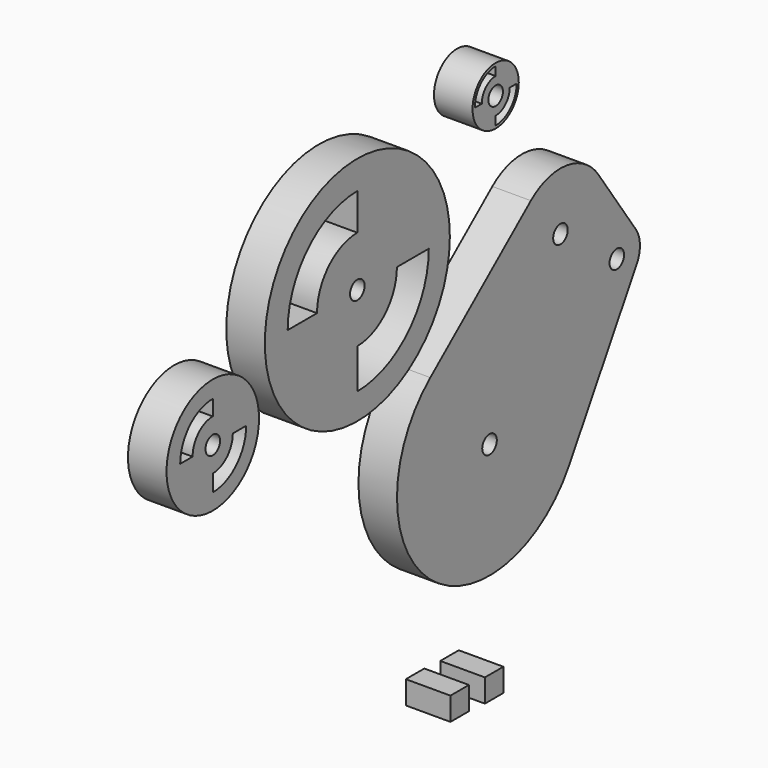
from build123d import *

# Parameters (mm, degrees)
F0_R     = 1.499997
F0_R_2   = 9.525
F0_R_3   = 19.05
F0_R_4   = 4.7625
F1_DEPTH = 6.35
F2_W     = 3.81
F2_H     = 3.81
F3_DEPTH = 7.350001


with BuildPart() as f1:
    # F0 (on Right) → F1 (new body)
    with BuildSketch(Plane.YZ):
        with BuildLine():
            Line((-20.975642, 6.234786), (-7.0554, 29.742179))
            ThreePointArc((-7.0554, 29.742179), (-6.394042, 32.344319), (-7.245258, 34.890681))
            Line((-7.245258, 34.890681), (-14.943859, 45.944314))
            ThreePointArc((-14.943859, 45.944314), (-21.487185, 49.940161), (-28.855151, 47.820024))
            Line((-28.855151, 47.820024), (-49.557661, 30.580212))
            ThreePointArc((-49.557661, 30.580212), (-49.719906, 1.439088), (-20.975642, 6.234786))
        make_face()
        with Locations((-37.367273, 15.941327)):
            Circle(F0_R, mode=Mode.SUBTRACT)
        with Locations((-11.153307, 32.168815)):
            Circle(F0_R, mode=Mode.SUBTRACT)
        with Locations((-22.759957, 40.500581)):
            Circle(F0_R, mode=Mode.SUBTRACT)
        with Locations((-94.351119, 39.008833)):
            Circle(F0_R_2)
        with Locations((-94.351119, 39.008833)):
            Circle(F0_R, mode=Mode.SUBTRACT)
        with BuildLine():
            Line((-98.504625, 39.008833), (-101.063631, 39.008833))
            ThreePointArc((-101.063631, 39.008833), (-99.097582, 43.755296), (-94.351119, 45.721345))
            Line((-94.351119, 45.721345), (-94.351119, 43.162339))
            ThreePointArc((-94.351119, 43.162339), (-97.288091, 41.945805), (-98.504625, 39.008833))
        make_face(mode=Mode.SUBTRACT)
        with BuildLine():
            ThreePointArc((-87.473325, 39.008833), (-89.487784, 34.145498), (-94.351119, 32.131039))
            Line((-94.351119, 32.131039), (-94.351119, 34.886889))
            ThreePointArc((-94.351119, 34.886889), (-91.436465, 36.094179), (-90.229175, 39.008833))
            Line((-90.229175, 39.008833), (-87.473325, 39.008833))
        make_face(mode=Mode.SUBTRACT)
        with Locations((-64.585872, 49.403638)):
            Circle(F0_R_3)
        with BuildLine():
            Line((-64.585872, 34.689154), (-64.585872, 41.258119))
            ThreePointArc((-64.585872, 41.258119), (-58.826121, 43.643886), (-56.440353, 49.403638))
            Line((-56.440353, 49.403638), (-49.871389, 49.403638))
            ThreePointArc((-49.871389, 49.403638), (-54.181161, 38.998927), (-64.585872, 34.689154))
        make_face(mode=Mode.SUBTRACT)
        with Locations((-64.585872, 49.403638)):
            Circle(F0_R, mode=Mode.SUBTRACT)
        with BuildLine():
            ThreePointArc((-64.585872, 57.7012), (-70.453135, 55.2709), (-72.883435, 49.403638))
            Line((-72.883435, 49.403638), (-78.926884, 49.403638))
            ThreePointArc((-78.926884, 49.403638), (-74.726499, 59.544264), (-64.585872, 63.744649))
            Line((-64.585872, 63.744649), (-64.585872, 57.7012))
        make_face(mode=Mode.SUBTRACT)
        with Locations((-36.105146, 65.986276)):
            Circle(F0_R_4)
        with BuildLine():
            Line((-36.105146, 61.663408), (-36.105146, 63.09294))
            ThreePointArc((-36.105146, 63.09294), (-34.059248, 63.940378), (-33.211809, 65.986276))
            Line((-33.211809, 65.986276), (-31.782278, 65.986276))
            ThreePointArc((-31.782278, 65.986276), (-33.048417, 62.929547), (-36.105146, 61.663408))
        make_face(mode=Mode.SUBTRACT)
        with Locations((-36.105146, 65.986276)):
            Circle(F0_R, mode=Mode.SUBTRACT)
        with BuildLine():
            ThreePointArc((-36.105146, 68.845264), (-38.126756, 68.007886), (-38.964134, 65.986276))
            Line((-38.964134, 65.986276), (-40.393669, 65.986276))
            ThreePointArc((-40.393669, 65.986276), (-39.13759, 69.01872), (-36.105146, 70.274799))
            Line((-36.105146, 70.274799), (-36.105146, 68.845264))
        make_face(mode=Mode.SUBTRACT)
    extrude(amount=F1_DEPTH)


with BuildPart() as f3:
    # F2 (on Right) → F3 (new body)
    with BuildSketch(Plane.YZ):
        with Locations((-44.760511, -18.301278)):
            Rectangle(F2_W, F2_H)
        with Locations((-37.664384, -18.539403)):
            Rectangle(F2_W, F2_H)
    extrude(amount=F3_DEPTH)


solid = Compound([f1.part, f3.part])
